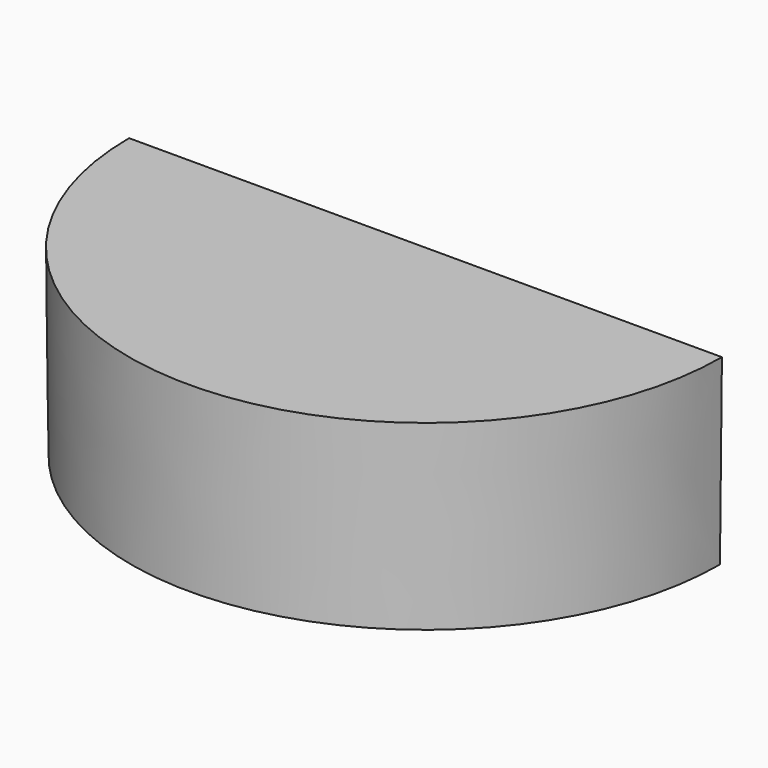
from build123d import *

# Parameters (mm, degrees)
F1_ANGLE = 180


with BuildPart() as f1:
    # F0 (on Front) → F1 (revolve)
    with BuildSketch(Plane.XZ):
        Polygon((-45.3, 27.998393), (-45, 0), (0, 0), (0, 27.998393), align=None)
    revolve(axis=Axis((0, 0, 9.555204), (0, 0, 1)), revolution_arc=F1_ANGLE)


solid = f1.part
